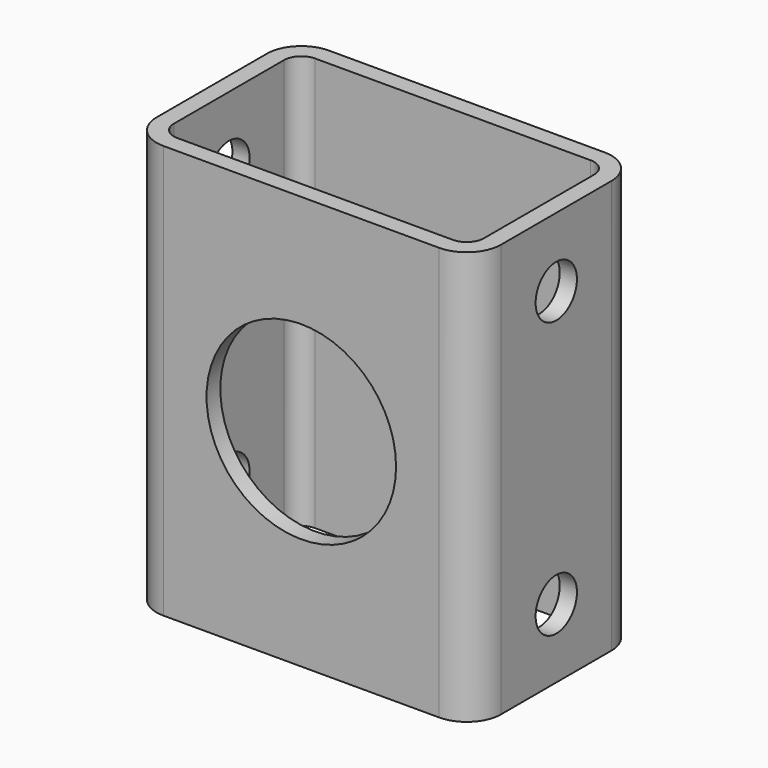
from build123d import *

# Parameters (mm, degrees)
F1_DEPTH = 38.1
F2_R     = 4.7625
F3_DEPTH = 63.501
F4_R     = 17.4625
F5_DEPTH = 3.175


with BuildPart() as f1:
    # F0 (on Top) → F1 (new body, symmetric)
    with BuildSketch(Plane.XY):
        with BuildLine():
            Line((-25.4, -19.05), (25.4, -19.05))
            ThreePointArc((25.4, -19.05), (29.890128, -17.190128), (31.75, -12.7))
            Line((31.75, -12.7), (31.75, 12.7))
            ThreePointArc((31.75, 12.7), (29.890128, 17.190128), (25.4, 19.05))
            Line((25.4, 19.05), (-25.4, 19.05))
            ThreePointArc((-25.4, 19.05), (-29.890128, 17.190128), (-31.75, 12.7))
            Line((-31.75, 12.7), (-31.75, -12.7))
            ThreePointArc((-31.75, -12.7), (-29.890128, -17.190128), (-25.4, -19.05))
        make_face()
        with BuildLine():
            Line((-25.4, 15.875), (25.4, 15.875))
            ThreePointArc((25.4, 15.875), (27.645064, 14.945064), (28.575, 12.7))
            Line((28.575, 12.7), (28.575, -12.7))
            ThreePointArc((28.575, -12.7), (27.645064, -14.945064), (25.4, -15.875))
            Line((25.4, -15.875), (-25.4, -15.875))
            ThreePointArc((-25.4, -15.875), (-27.645064, -14.945064), (-28.575, -12.7))
            Line((-28.575, -12.7), (-28.575, 12.7))
            ThreePointArc((-28.575, 12.7), (-27.645064, 14.945064), (-25.4, 15.875))
        make_face(mode=Mode.SUBTRACT)
    extrude(amount=F1_DEPTH, both=True)

    # F2 (on face) → F3 (cut, through all)
    with BuildSketch(Plane.YZ.offset(31.75)):
        with Locations((0, 25.4)):
            Circle(F2_R)
        with Locations((0, -25.4)):
            Circle(F2_R)
    extrude(amount=-F3_DEPTH, mode=Mode.SUBTRACT)

    # F4 (on face) → F5 (cut, through all)
    with BuildSketch(Plane.XZ.offset(19.05)):
        Circle(F4_R)
    extrude(amount=-F5_DEPTH, mode=Mode.SUBTRACT)


solid = f1.part
